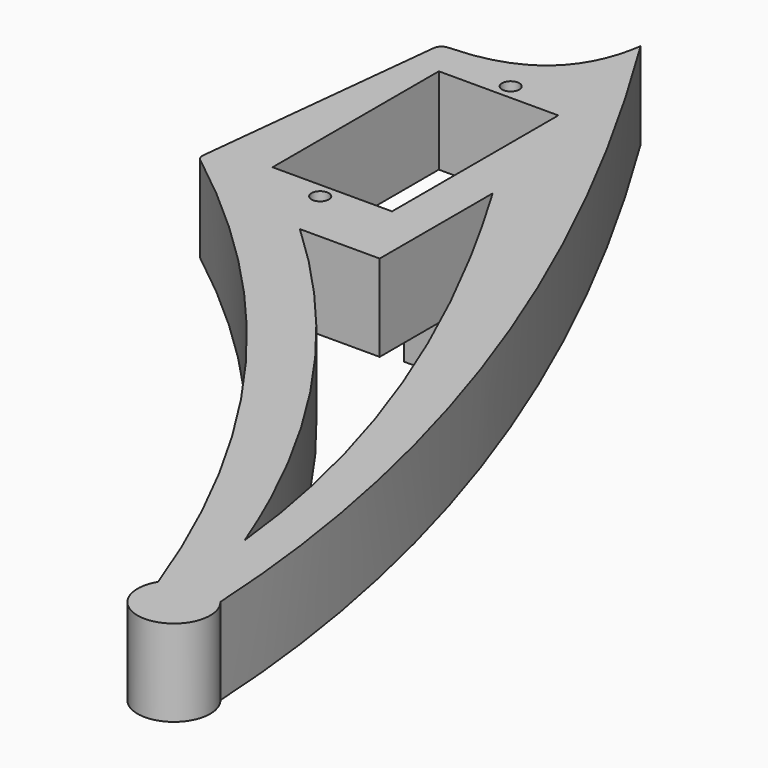
from build123d import *

# Parameters (mm, degrees)
CYLINDER020_R     = 1
CYLINDER020_DEPTH = 10
CYLINDER019_R     = 1
CYLINDER019_DEPTH = 10
BOX008_W          = 4
BOX008_H          = 10
BOX008_DEPTH      = 8.9
SKETCH003_W       = 13.8
SKETCH003_H       = 24
SKETCH003_R       = 1
EXTRUDE003_DEPTH  = 10
FILLET001_R       = 1


with BuildPart() as cylinder020:
    # Cylinder020 → Cylinder020 (new body)
    with BuildSketch(Plane(origin=(9, -2.9, -11.7), x_dir=(1, 0, 0), z_dir=(0, 0, 1))):
        Circle(CYLINDER020_R)
    extrude(amount=CYLINDER020_DEPTH)


with BuildPart() as cylinder019:
    # Cylinder019 → Cylinder019 (new body)
    with BuildSketch(Plane(origin=(9, -7.9, -11.7), x_dir=(1, 0, 0), z_dir=(0, 0, 1))):
        Circle(CYLINDER019_R)
    extrude(amount=CYLINDER019_DEPTH)


with BuildPart() as cube:
    # Box008 → Box008 (new body)
    with BuildSketch(Plane(origin=(7, -10.4, -5.9), x_dir=(1, 0, 0), z_dir=(0, 0, 1))):
        with Locations((2, 5)):
            Rectangle(BOX008_W, BOX008_H)
    extrude(amount=BOX008_DEPTH)


with BuildPart() as version_final:
    # Sketch003 → Extrude003 (new body)
    with BuildSketch(Plane.XY):
        with BuildLine():
            Line((-10, 16.128428), (-13.297334, -14.6392))
            add(Edge.make_bspline(
                [(-13.297334, -14.6392), (20.347338, -40.345566), (35.627229, -81.672969)],
                knots=[0, 0, 0, 1, 1, 1], degree=2))
            ThreePointArc((35.627229, -81.672969), (39.484607, -88.059425), (42.451137, -81.213558))
            add(Edge.make_bspline(
                [(4.23934, 27.2126), (39.721497, -30.208815), (42.451137, -81.213558)],
                knots=[0, 0, 0, 1, 1, 1], degree=2))
            add(Edge.make_bspline(
                [(-10, 16.128428), (2.6632, 16.087), (4.23934, 27.2126)],
                knots=[0, 0, 0, 1, 1, 1], degree=2))
        make_face()
        Rectangle(SKETCH003_W, SKETCH003_H, mode=Mode.SUBTRACT)
        with Locations((0, -13.75)):
            Circle(SKETCH003_R, mode=Mode.SUBTRACT)
        with Locations((0, 13.75)):
            Circle(SKETCH003_R, mode=Mode.SUBTRACT)
        with BuildLine():
            add(Edge.make_bspline(
                [(2.569153, -19.891897), (25.299458, -40.964581), (36.64809, -70.471016)],
                knots=[0, 0, 0, 1, 1, 1], degree=2))
            add(Edge.make_bspline(
                [(36.64809, -70.471016), (33.5686, -40), (11.784026, -3.578896)],
                knots=[0, 0, 0, 1, 1, 1], degree=2))
            Line((11.784026, -3.578896), (11.784026, -19.891897))
            Line((11.784026, -19.891897), (2.569153, -19.891897))
        make_face(mode=Mode.SUBTRACT)
    extrude(amount=EXTRUDE003_DEPTH)

    # Fillet001
    fillet001_edges = [version_final.edges().sort_by_distance(p)[0] for p in [
        (-10, 16.128428, 5),
        (-13.297334, -14.6392, 5),
    ]]
    fillet(fillet001_edges, radius=FILLET001_R)

    # Fusion012: union Cube
    add(cube.part)

    # Cut006: cut Cylinder019
    add(cylinder019.part, mode=Mode.SUBTRACT)

    # Cut007: cut Cylinder020
    add(cylinder020.part, mode=Mode.SUBTRACT)


solid = version_final.part
